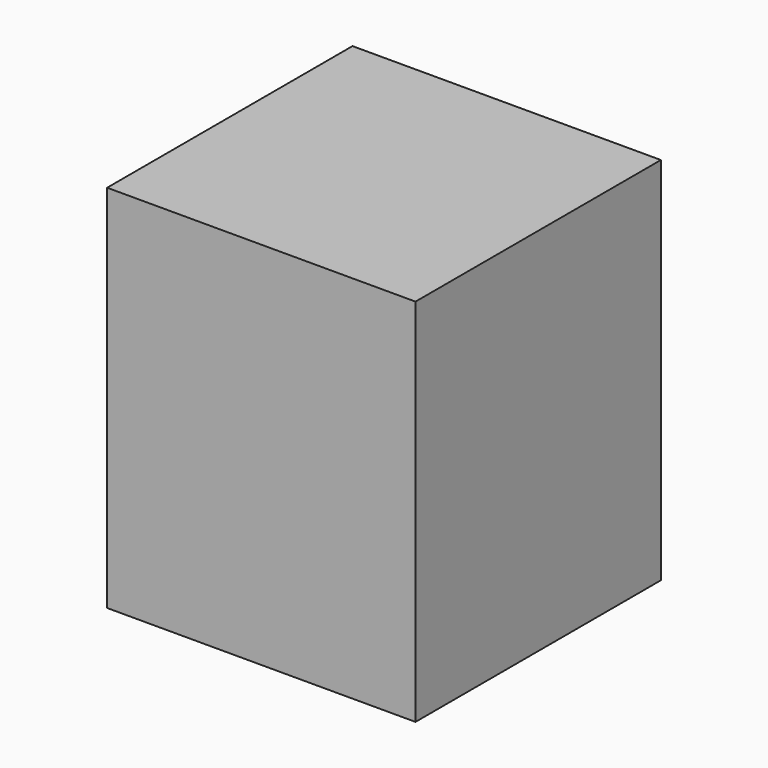
from build123d import *

# Parameters (mm, degrees)
F0_W     = 72.115678
F0_H     = 86.532899
F1_DEPTH = 71.728319
F2_T     = -2.54


with BuildPart() as f1:
    # F0 (on Front) → F1 (new body)
    with BuildSketch(Plane.XZ):
        with Locations((-15.148578, -6.079908)):
            Rectangle(F0_W, F0_H)
    extrude(amount=F1_DEPTH)

    # F2
    f2_openings = [f1.faces().sort_by_distance(p)[0] for p in [
        (-15.148578, -35.864159, -49.346358),
        (-51.206417, -35.864159, -6.079908),
    ]]
    offset(amount=F2_T, openings=f2_openings)


solid = f1.part
